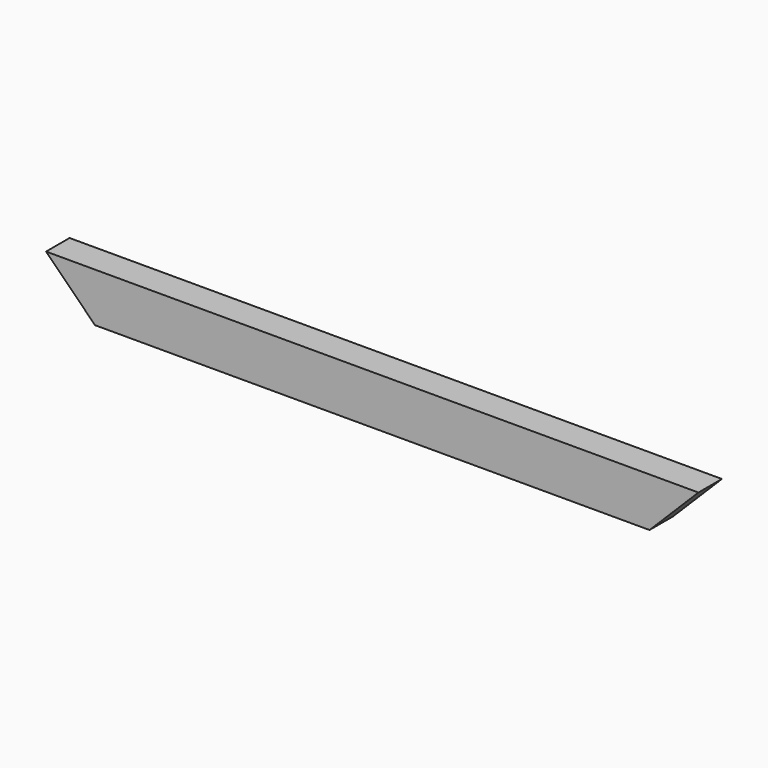
from build123d import *

# Parameters (mm, degrees)
F0_W     = 18
F0_H     = 30
F1_DEPTH = 200
F3_DEPTH = 18


with BuildPart() as f1:
    # F0 (on Right) → F1 (new body, symmetric)
    with BuildSketch(Plane.YZ):
        Rectangle(F0_W, F0_H)
    extrude(amount=F1_DEPTH, both=True)

    # F2 (on face) → F3 (cut)
    with BuildSketch(Plane.XZ.offset(9)):
        Polygon((-170, -15), (-200, 15), (-200, -15), align=None)
        Polygon((200, -15), (200, 15), (170, -15), align=None)
    extrude(amount=-F3_DEPTH, mode=Mode.SUBTRACT)


solid = f1.part
